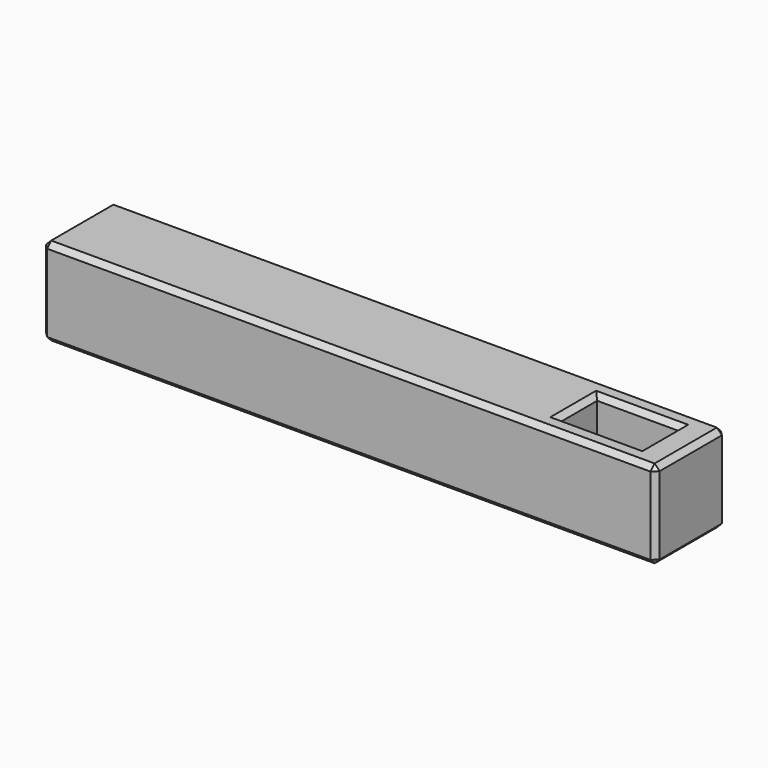
from build123d import *

# Parameters (mm, degrees)
F0_W     = 30
F0_H     = 4.3
F1_DEPTH = 4.3
F2_W     = 4
F2_H     = 2.3
F6_DEPTH = 4.301
F3_SIZE  = 0.25
F4_R     = 1.5
F5_DEPTH = 23


with BuildPart() as f1:
    # F0 (on Top) → F1 (new body)
    with BuildSketch(Plane.XY):
        with Locations((-1.762214, 2.15)):
            Rectangle(F0_W, F0_H)
    extrude(amount=F1_DEPTH)

    # F2 (on face) → F6 (cut, through all)
    with BuildSketch(Plane.XY.offset(4.3)):
        with Locations((9.737786, 2.15)):
            Rectangle(F2_W, F2_H)
    extrude(amount=-F6_DEPTH, mode=Mode.SUBTRACT)

    # F3
    f3_edges = [f1.edges().sort_by_distance(p)[0] for p in [
        (13.237786, 2.15, 4.3),
        (-1.762214, 0, 4.3),
        (-1.762214, 4.3, 4.3),
        (13.237786, 0, 2.15),
        (13.237786, 4.3, 2.15),
        (-1.762214, 4.3, 0),
        (13.237786, 2.15, 0),
        (-1.762214, 0, 0),
        (9.737786, 3.3, 0),
        (7.737786, 2.15, 0),
        (9.737786, 1, 0),
        (11.737786, 2.15, 0),
        (7.737786, 2.15, 4.3),
        (11.737786, 2.15, 4.3),
        (9.737786, 3.3, 4.3),
        (9.737786, 1, 4.3),
        (-16.762214, 2.15, 4.3),
        (-16.762214, 0, 2.15),
        (-16.762214, 2.15, 0),
        (-16.762214, 4.3, 2.15),
    ]]
    chamfer(f3_edges, length=F3_SIZE)

    # F4 (on face) → F5 (cut)
    with BuildSketch(Plane(origin=(-16.762214, 0, 0), x_dir=(0, -1, 0), z_dir=(-1, 0, 0))):
        with Locations((-2.15, 2.15)):
            Circle(F4_R)
    extrude(amount=-F5_DEPTH, mode=Mode.SUBTRACT)


solid = f1.part
